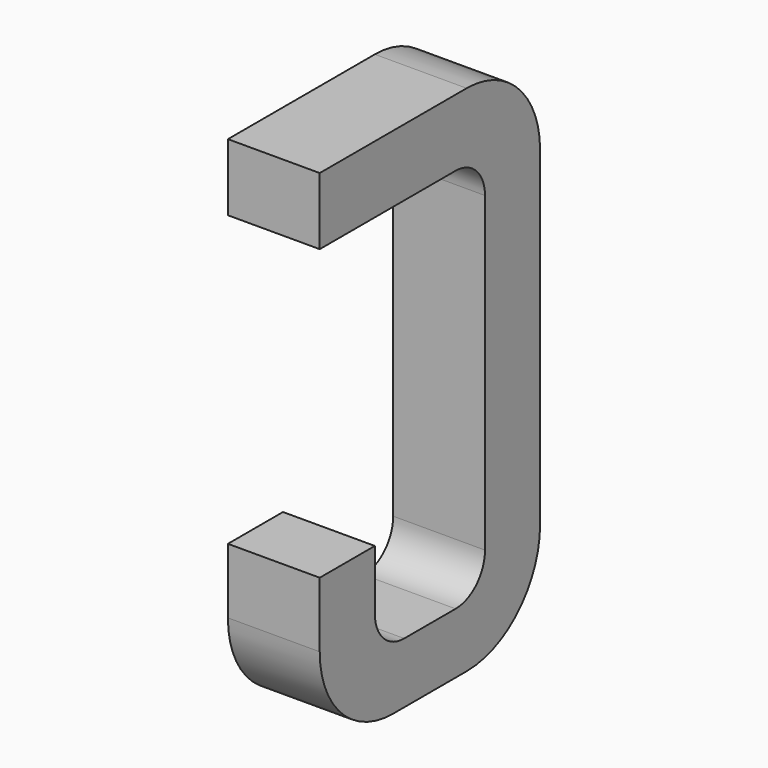
from build123d import *

# Parameters (mm, degrees)
BOX162_W     = 0.5
BOX162_H     = 1.5
BOX162_DEPTH = 2.795
FILLET370_R  = 0.5
FILLET382_R  = 0.5
FILLET378_R  = 0.5
BOX189_W     = 0.75
BOX189_H     = 2.1
BOX189_DEPTH = 1
FILLET362_R  = 0.2
FILLET385_R  = 0.2
FILLET363_R  = 0.2
FILLET377_R  = 0.2
BOX170_W     = 1
BOX170_H     = 1.575
BOX170_DEPTH = 3


with BuildPart() as part:
    # Box162 → Box162 (join)
    with BuildSketch(Plane(origin=(-0.25, 11.125, 0), x_dir=(1, 0, 0), z_dir=(0, 0, 1))):
        with Locations((0.25, 0.75)):
            Rectangle(BOX162_W, BOX162_H)
    extrude(amount=BOX162_DEPTH)

    # Fillet370
    fillet370_edges = [part.edges().sort_by_distance(p)[0] for p in [
        (0, 12.625, 0),
    ]]
    fillet(fillet370_edges, radius=FILLET370_R)

    # Fillet382
    fillet382_edges = [part.edges().sort_by_distance(p)[0] for p in [
        (0, 12.625, 2.795),
    ]]
    fillet(fillet382_edges, radius=FILLET382_R)

    # Fillet378
    fillet378_edges = [part.edges().sort_by_distance(p)[0] for p in [
        (0, 11.125, 0),
    ]]
    fillet(fillet378_edges, radius=FILLET378_R)

    # Box189 → Box189 (cut)
    with BuildSketch(Plane(origin=(-0.5, 11.5, 0.33), x_dir=(0, 1, 0), z_dir=(1, 0, 0))):
        with Locations((0.375, 1.05)):
            Rectangle(BOX189_W, BOX189_H)
    extrude(amount=BOX189_DEPTH, mode=Mode.SUBTRACT)

    # Fillet362
    fillet362_edges = [part.edges().sort_by_distance(p)[0] for p in [
        (0, 11.5, 0.33),
    ]]
    fillet(fillet362_edges, radius=FILLET362_R)

    # Fillet385
    fillet385_edges = [part.edges().sort_by_distance(p)[0] for p in [
        (0, 12.25, 0.33),
    ]]
    fillet(fillet385_edges, radius=FILLET385_R)

    # Fillet363
    fillet363_edges = [part.edges().sort_by_distance(p)[0] for p in [
        (0, 11.5, 2.43),
    ]]
    fillet(fillet363_edges, radius=FILLET363_R)

    # Fillet377
    fillet377_edges = [part.edges().sort_by_distance(p)[0] for p in [
        (0, 12.25, 2.43),
    ]]
    fillet(fillet377_edges, radius=FILLET377_R)

    # Box170 → Box170 (cut)
    with BuildSketch(Plane(origin=(-1, 11, 0.855), x_dir=(0, 1, 0), z_dir=(1, 0, 0))):
        with Locations((0.5, 0.7875)):
            Rectangle(BOX170_W, BOX170_H)
    extrude(amount=BOX170_DEPTH, mode=Mode.SUBTRACT)


with BuildPart() as part_1:
    # Body053 placement: moved
    add(part.part.moved(Location((-1.27, 0, 0))))


solid = part_1.part
